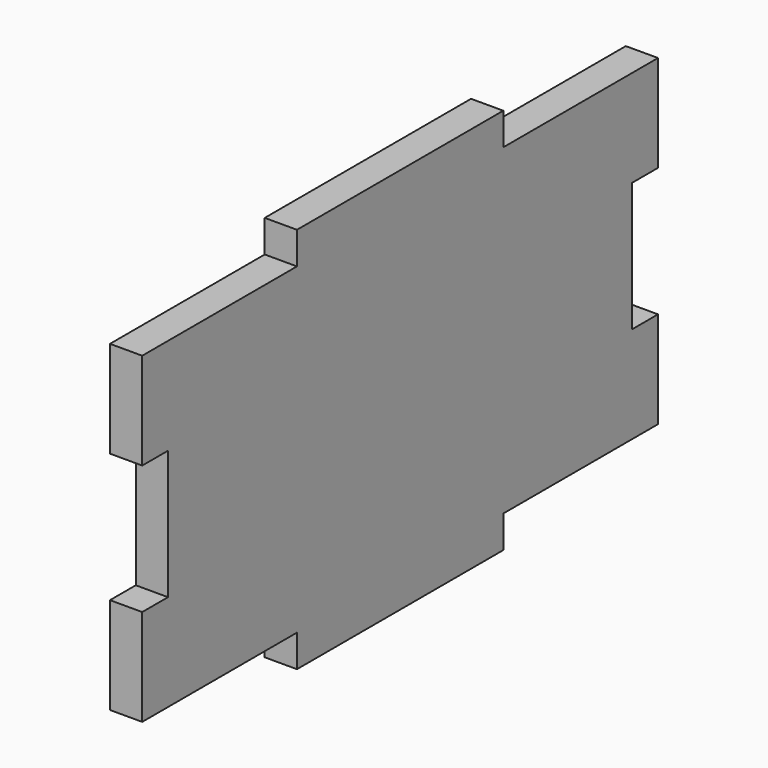
from build123d import *

# Parameters (mm, degrees)
F0_W     = 50.8
F0_H     = 6.35
F1_DEPTH = 6.35


with BuildPart() as f1:
    # F0 (on Right) → F1 (new body)
    with BuildSketch(Plane.YZ):
        Polygon((-0.8030089825, 24.1824972746), (-38.9030089825, 24.1824972746), (-38.9030089825, 5.1324972746), (-32.5530089825, 5.1324972746), (-32.5530089825, -20.2675027254), (-38.9030089825, -20.2675027254), (-38.9030089825, -39.3175027254), (-0.8030089825, -39.3175027254), (49.9969910175, -39.3175027254), (88.0969910175, -39.3175027254), (88.0969910175, -20.2675027254), (81.7469910175, -20.2675027254), (81.7469910175, 5.1324972746), (88.0969910175, 5.1324972746), (88.0969910175, 24.1824972746), (49.9969910175, 24.1824972746), align=None)
        with Locations((24.5969910175, 27.3574972746)):
            Rectangle(F0_W, F0_H)
        with Locations((24.5969910175, -42.4925027254)):
            Rectangle(F0_W, F0_H)
    extrude(amount=F1_DEPTH)


solid = f1.part
